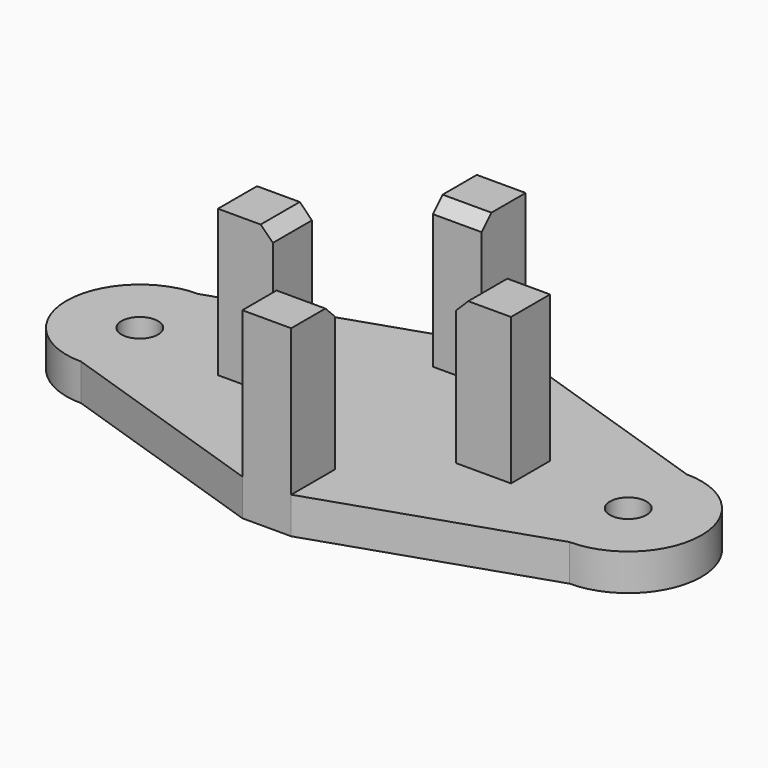
from build123d import *

# Parameters (mm, degrees)
SKETCH_R      = 1.5
PAD_DEPTH     = 3
SKETCH001_W   = 4
SKETCH001_H   = 4.5
SKETCH001_W_2 = 4.5
SKETCH001_H_2 = 4
PAD001_DEPTH  = 12
CHAMFER_SIZE  = 1


with BuildPart() as part:
    # Sketch → Pad (new body)
    with BuildSketch(Plane.XY):
        with BuildLine():
            ThreePointArc((20, 26), (14, 20), (20, 14))
            Line((20, 14), (38, 8))
            Line((38, 8), (42, 8))
            Line((42, 8), (60, 14))
            ThreePointArc((60, 14), (66, 20), (60, 26))
            Line((42, 32), (60, 26))
            Line((38, 32), (42, 32))
            Line((20, 26), (38, 32))
        make_face()
        with Locations((20, 20)):
            Circle(SKETCH_R, mode=Mode.SUBTRACT)
        with Locations((60, 20)):
            Circle(SKETCH_R, mode=Mode.SUBTRACT)
    extrude(amount=PAD_DEPTH)

    # Sketch001 (on Face12 of Pad) → Pad001 (join)
    with BuildSketch(Plane.XY.offset(3)):
        with Locations((40, 29.75)):
            Rectangle(SKETCH001_W, SKETCH001_H)
        with Locations((40, 10.25)):
            Rectangle(SKETCH001_W, SKETCH001_H)
        with Locations((30.25, 20)):
            Rectangle(SKETCH001_W_2, SKETCH001_H_2)
        with Locations((49.75, 20)):
            Rectangle(SKETCH001_W_2, SKETCH001_H_2)
    extrude(amount=PAD001_DEPTH)

    # Chamfer
    chamfer_edges = [part.edges().sort_by_distance(p)[0] for p in [
        (32.5, 20, 15),
        (40, 12.5, 15),
        (40, 27.5, 15),
        (47.5, 20, 15),
    ]]
    chamfer(chamfer_edges, length=CHAMFER_SIZE)


solid = part.part
